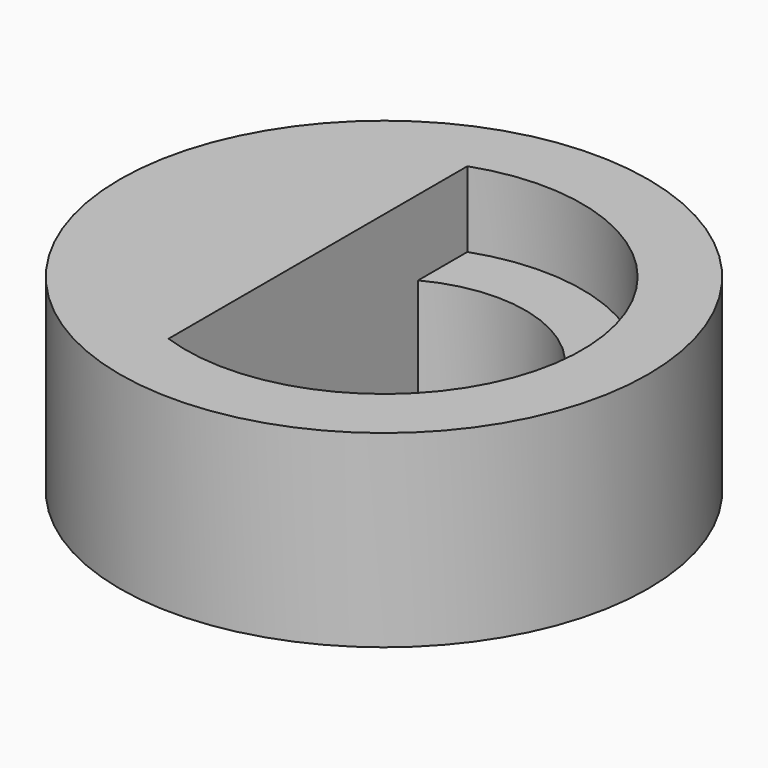
from build123d import *

# Parameters (mm, degrees)
F0_R     = 7
F1_DEPTH = 5
F2_DEPTH = 3


with BuildPart() as f1:
    # F0 (on Top) → F1 (new body)
    with BuildSketch(Plane.XY):
        Circle(F0_R)
        with BuildLine():
            ThreePointArc((-1.75, -4.9497474683), (-5.25, 0), (-1.75, 4.9497474683))
            ThreePointArc((-1.75, 4.9497474683), (3.0310889132, 4.2866070499), (5.25, 0))
            ThreePointArc((5.25, 0), (3.0310889132, -4.2866070499), (-1.75, -4.9497474683))
        make_face(mode=Mode.SUBTRACT)
        with BuildLine():
            ThreePointArc((-1.75, -3.3166247904), (-3.75, 0), (-1.75, 3.3166247904))
            Line((-1.75, 3.3166247904), (-1.75, 4.9497474683))
            ThreePointArc((-1.75, 4.9497474683), (-5.25, 0), (-1.75, -4.9497474683))
            Line((-1.75, -4.9497474683), (-1.75, -3.3166247904))
        make_face()
        with BuildLine():
            Line((-1.75, 0), (-1.75, 3.3166247904))
            ThreePointArc((-1.75, 3.3166247904), (-3.75, 0), (-1.75, -3.3166247904))
            Line((-1.75, -3.3166247904), (-1.75, 0))
        make_face()
    extrude(amount=F1_DEPTH)

    # F0 (on Top) → F2 (join)
    with BuildSketch(Plane.XY):
        with BuildLine():
            ThreePointArc((-1.75, 3.3166247904), (1.9364916731, 3.2113081447), (3.75, 0))
            ThreePointArc((3.75, 0), (1.9364916731, -3.2113081447), (-1.75, -3.3166247904))
            Line((-1.75, -3.3166247904), (-1.75, -4.9497474683))
            ThreePointArc((-1.75, -4.9497474683), (3.0310889132, -4.2866070499), (5.25, 0))
            ThreePointArc((5.25, 0), (3.0310889132, 4.2866070499), (-1.75, 4.9497474683))
            Line((-1.75, 4.9497474683), (-1.75, 3.3166247904))
        make_face()
    extrude(amount=F2_DEPTH)


solid = f1.part
